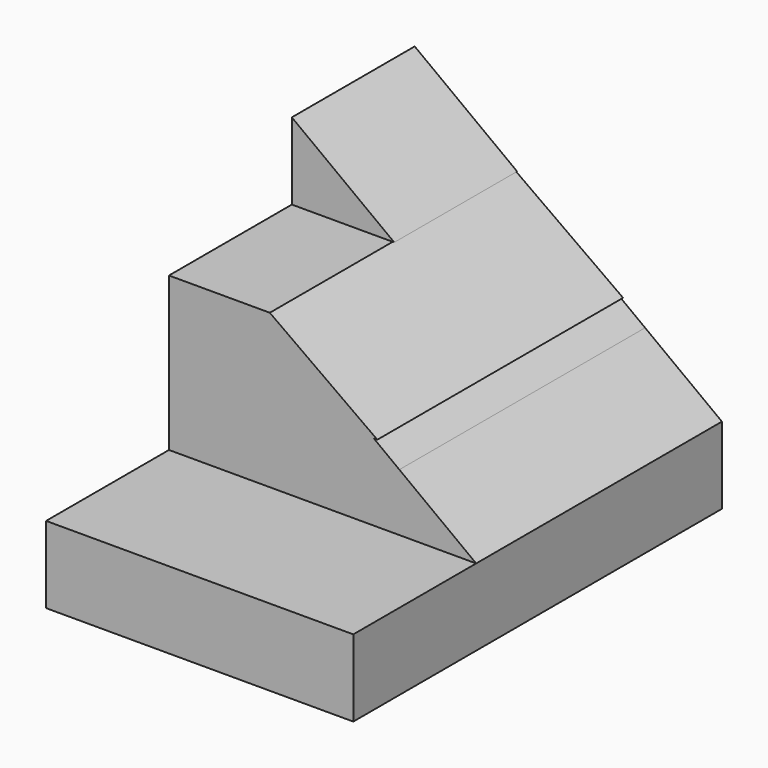
from build123d import *

# Parameters (mm, degrees)
F2_DEPTH  = 25.4
F3_DEPTH  = 25.4
F5_DEPTH  = 12.7
F7_DEPTH  = 12.7
F9_DEPTH  = 25.4
F10_DEPTH = 12.7
F11_DEPTH = 12.7


with BuildPart() as f2:
    # F1 (on Right) → F2 (new body)
    with BuildSketch(Plane.YZ):
        Polygon((0, 6.35), (0, 0), (38.1, 0), (38.1, 6.35), (25.4, 6.35), (12.7, 6.35), align=None)
        Polygon((25.4, 6.35), (38.1, 6.35), (38.1, 25.4), (25.4, 25.4), (25.4, 19.05), (12.7, 19.05), (12.7, 12.7), (25.4, 12.7), align=None)
    extrude(amount=F2_DEPTH)

    # F0 (on Front) → F3 (join)
    with BuildSketch(Plane.XZ):
        Polygon((0, 6.35), (0, 0), (25.4, 0), (25.4, 6.35), (19.05, 6.35), align=None)
        Polygon((0, 19.05), (0, 6.35), (19.05, 6.35), (19.05, 11.1125), (8.4666666667, 19.05), align=None)
        Polygon((19.05, 6.35), (25.4, 6.35), (19.05, 11.1125), align=None)
        Polygon((0, 25.4), (0, 19.05), (8.4666666667, 19.05), align=None)
    extrude(amount=-F3_DEPTH)

    # F4 (on face) → F5 (cut)
    with BuildSketch(Plane.XZ):
        Polygon((25.4, 6.35), (0, 25.4), (0, 6.35), align=None)
    extrude(amount=-F5_DEPTH, mode=Mode.SUBTRACT)

    # F7 (cut): a face of the model
    f7_faces = [f2.faces().sort_by_distance(p)[0] for p in [
        (14.6755555556, 25.4, 22.4366666667),
    ]]
    extrude(f7_faces, amount=-F7_DEPTH, mode=Mode.SUBTRACT)

    # F8 (on face) → F9 (cut)
    with BuildSketch(Plane.XZ.offset(-12.7)):
        Polygon((8.4666666667, 19.05), (8.3384562082, 19.05), (17.2284582002, 12.7), (25.4, 12.7), (25.4, 19.05), align=None)
    extrude(amount=-F9_DEPTH, mode=Mode.SUBTRACT)

    # F6 (on face) → F10 (cut)
    with BuildSketch(Plane.XZ.offset(-12.7)):
        Polygon((0, 19.05), (8.4666666667, 19.05), (0, 25.4), align=None)
    extrude(amount=-F10_DEPTH, mode=Mode.SUBTRACT)

    # F11 (cut): a face of the model
    f11_faces = [f2.faces().sort_by_distance(p)[0] for p in [
        (22.5777777778, 25.4, 10.5833333333),
    ]]
    extrude(f11_faces, amount=-F11_DEPTH, mode=Mode.SUBTRACT)


solid = f2.part
